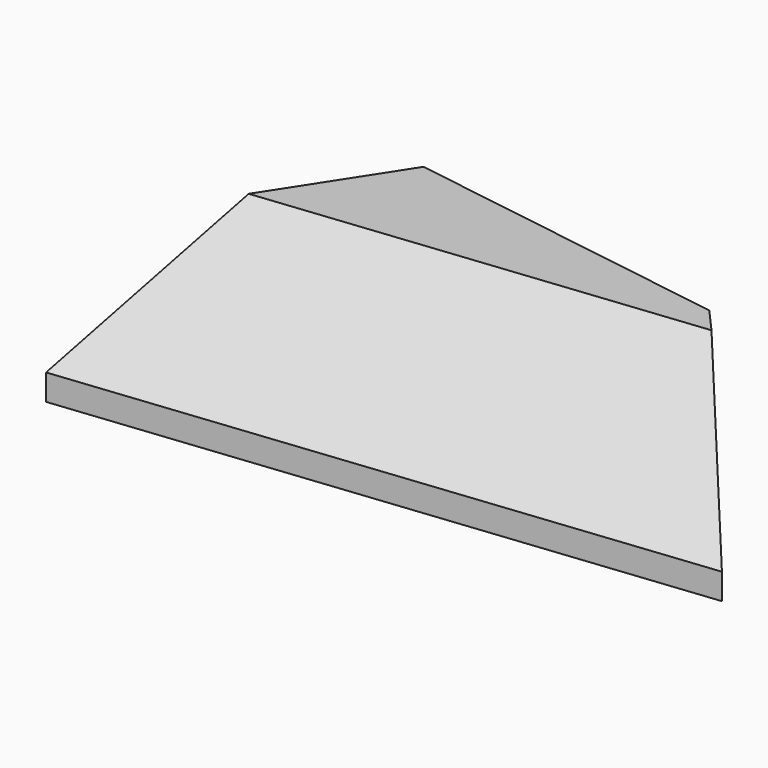
from build123d import *

# Parameters (mm, degrees)
PAD_DEPTH    = 304.8
CHAMFER_SIZE = 254


with BuildPart() as part:
    # Sketch → Pad (new body)
    with BuildSketch(Plane.XY):
        Polygon((-806.45, -146.05), (-476.25, 365.125), (161.925, 266.7), (412.75, -15.875), align=None)
    extrude(amount=PAD_DEPTH)

    # Chamfer
    chamfer_edges = [part.edges().sort_by_distance(p)[0] for p in [
        (-196.85, -80.9625, 304.8),
    ]]
    chamfer(chamfer_edges, length=CHAMFER_SIZE)


solid = part.part
